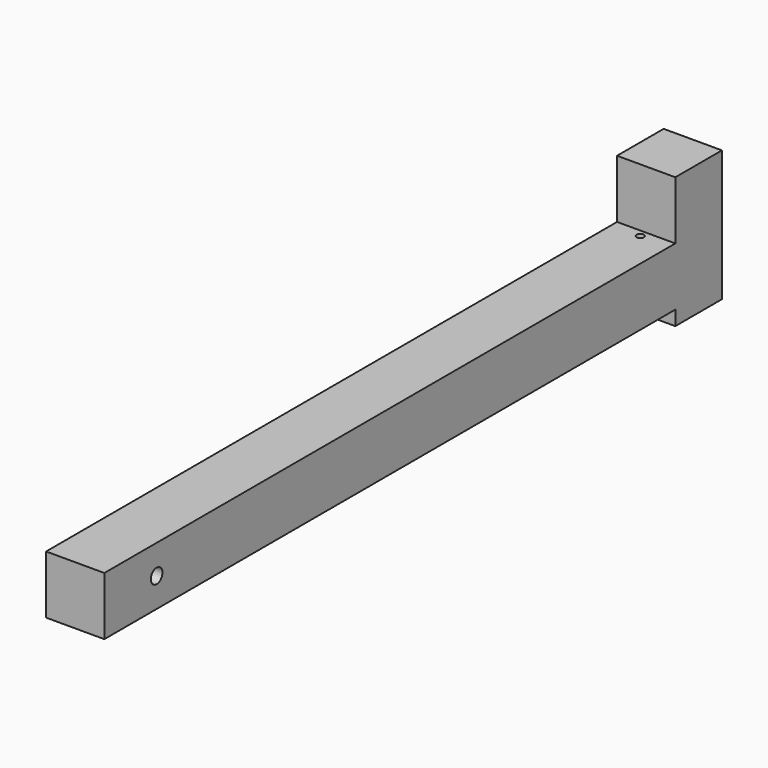
from build123d import *

# Parameters (mm, degrees)
F1_DEPTH = 25.4
F2_R     = 3.170865
F3_DEPTH = 25.401
F4_R     = 1.5875
F5_DEPTH = 3.175


with BuildPart() as f1:
    # F0 (on Right) → F1 (new body)
    with BuildSketch(Plane.YZ):
        Polygon((-168.275, -12.7), (142.875, -12.7), (142.875, -19.05), (168.275, -19.05), (168.275, -12.7), (168.275, 12.7), (168.275, 38.1), (142.875, 38.1), (142.875, 12.7), (-168.275, 12.7), align=None)
    extrude(amount=F1_DEPTH)

    # F2 (on face) → F3 (cut, through all)
    with BuildSketch(Plane.YZ.offset(25.4)):
        with Locations((-139.785126, 0)):
            Circle(F2_R)
    extrude(amount=-F3_DEPTH, mode=Mode.SUBTRACT)

    # F4 (on face) → F5 (cut)
    with BuildSketch(Plane.XY.offset(12.7)):
        with Locations((12.7, 139.7)):
            Circle(F4_R)
    extrude(amount=-F5_DEPTH, mode=Mode.SUBTRACT)


solid = f1.part
